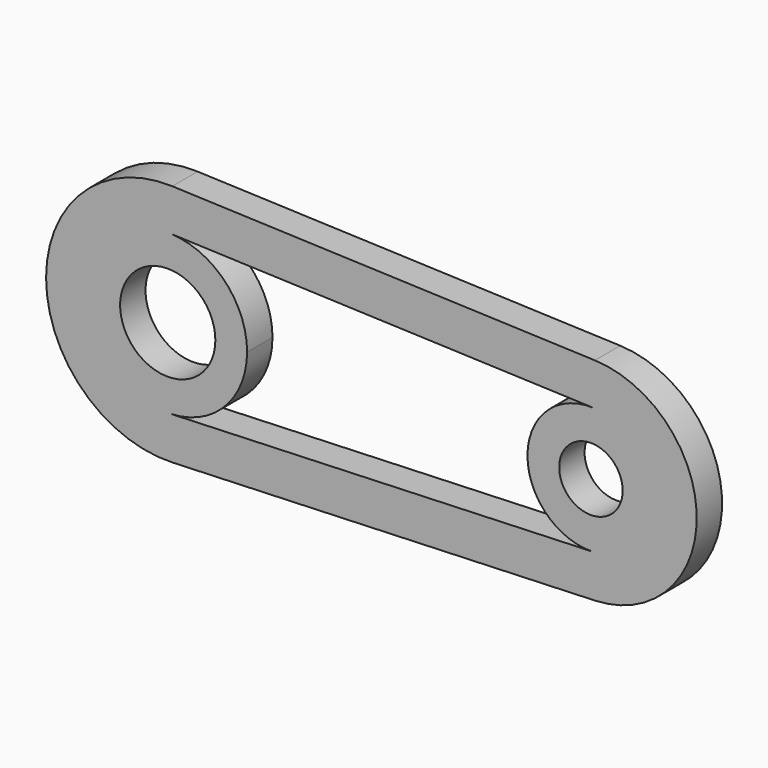
from build123d import *

# Parameters (mm, degrees)
F0_R     = 4.5
F0_R_2   = 3
F1_DEPTH = 3


with BuildPart() as f1:
    # F0 (on Front) → F1 (new body)
    with BuildSketch(Plane.XZ):
        with BuildLine():
            Line((40.375, 9.992966), (0.43125, 11.491911))
            ThreePointArc((0.43125, 11.491911), (-11.5, 0), (0.43125, -11.491911))
            Line((0.43125, -11.491911), (40.375, -9.992966))
            ThreePointArc((40.375, -9.992966), (50, 0), (40.375, 9.992966))
        make_face()
        with BuildLine():
            ThreePointArc((0.28125, -7.494725), (-7.5, 0), (0.28125, 7.494725))
            Line((0.28125, 7.494725), (40.225, 5.99578))
            ThreePointArc((40.225, 5.99578), (44.321458, 4.162331), (46, 0))
            ThreePointArc((46, 0), (44.321458, -4.162331), (40.225, -5.99578))
            Line((40.225, -5.99578), (0.28125, -7.494725))
        make_face(mode=Mode.SUBTRACT)
        with BuildLine():
            ThreePointArc((7.5, 0), (5.401823, 5.202914), (0.28125, 7.494725))
            ThreePointArc((0.28125, 7.494725), (-7.5, 0), (0.28125, -7.494725))
            ThreePointArc((0.28125, -7.494725), (5.401823, -5.202914), (7.5, 0))
        make_face()
        Circle(F0_R, mode=Mode.SUBTRACT)
        with BuildLine():
            ThreePointArc((46, 0), (44.321458, 4.162331), (40.225, 5.99578))
            ThreePointArc((40.225, 5.99578), (34, 0), (40.225, -5.99578))
            ThreePointArc((40.225, -5.99578), (44.321458, -4.162331), (46, 0))
        make_face()
        with Locations((40, 0)):
            Circle(F0_R_2, mode=Mode.SUBTRACT)
    extrude(amount=F1_DEPTH)


solid = f1.part
